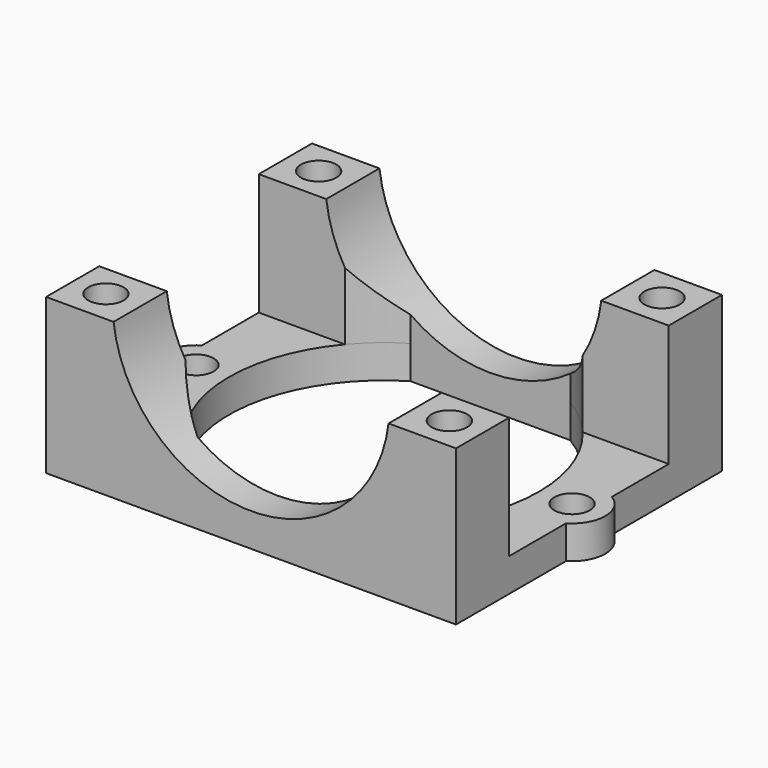
from build123d import *

# Parameters (mm, degrees)
F1_DEPTH = 3
F3_DEPTH = 11
F5_DEPTH = 30.001
F6_R     = 1.6
F7_DEPTH = 14.001


with BuildPart() as f1:
    # F0 (on Top) → F1 (new body)
    with BuildSketch(Plane.XY):
        with BuildLine():
            Line((18.5, 15), (-18.5, 15))
            Line((-18.5, 15), (-18.5, 2.580857))
            ThreePointArc((-18.5, 2.580857), (-19.970563, 0), (-18.5, -2.580857))
            Line((-18.5, -2.580857), (-18.5, -15))
            Line((-18.5, -15), (18.5, -15))
            Line((18.5, -15), (18.5, -2.580857))
            ThreePointArc((18.5, -2.580857), (19.970563, 0), (18.5, 2.580857))
            Line((18.5, 2.580857), (18.5, 15))
        make_face()
        with BuildLine():
            Line((-7.211103, 12), (7.211103, 12))
            ThreePointArc((7.211103, 12), (14, 0), (7.211103, -12))
            Line((7.211103, -12), (-7.211103, -12))
            ThreePointArc((-7.211103, -12), (-14, 0), (-7.211103, 12))
        make_face(mode=Mode.SUBTRACT)
    extrude(amount=F1_DEPTH)

    # F2 (on face) → F3 (join)
    with BuildSketch(Plane.XY.offset(3)):
        with BuildLine():
            Line((18.5, 15), (-18.5, 15))
            Line((-18.5, 15), (-18.5, 9))
            Line((-18.5, 9), (-10.723805, 9))
            ThreePointArc((-10.723805, 9), (-9.092042, 10.64588), (-7.211103, 12))
            Line((-7.211103, 12), (7.211103, 12))
            ThreePointArc((7.211103, 12), (9.092042, 10.64588), (10.723805, 9))
            Line((10.723805, 9), (18.5, 9))
            Line((18.5, 9), (18.5, 15))
        make_face()
        with BuildLine():
            ThreePointArc((10.723805, -9), (9.092042, -10.64588), (7.211103, -12))
            Line((7.211103, -12), (-7.211103, -12))
            ThreePointArc((-7.211103, -12), (-9.092042, -10.64588), (-10.723805, -9))
            Line((-10.723805, -9), (-18.5, -9))
            Line((-18.5, -9), (-18.5, -15))
            Line((-18.5, -15), (18.5, -15))
            Line((18.5, -15), (18.5, -9))
            Line((18.5, -9), (10.723805, -9))
        make_face()
    extrude(amount=F3_DEPTH)

    # F4 (on face) → F5 (cut, through all)
    with BuildSketch(Plane.XZ.offset(15)):
        with BuildLine():
            Line((12.409674, 14), (-12.409674, 14))
            ThreePointArc((-12.409674, 14), (0, 3), (12.409674, 14))
        make_face()
    extrude(amount=-F5_DEPTH, mode=Mode.SUBTRACT)

    # F6 (on face) → F7 (cut, through all)
    with BuildSketch(Plane(origin=(0, 0, 0), x_dir=(1, 0, 0), z_dir=(0, 0, -1))):
        with Locations((-15.5, 12)):
            Circle(F6_R)
        with Locations((15.5, 12)):
            Circle(F6_R)
        with Locations((15.5, -12)):
            Circle(F6_R)
        with Locations((-15.5, -12)):
            Circle(F6_R)
        with Locations((-16.970563, 0)):
            Circle(F6_R)
        with Locations((16.970563, 0)):
            Circle(F6_R)
    extrude(amount=-F7_DEPTH, mode=Mode.SUBTRACT)


solid = f1.part
